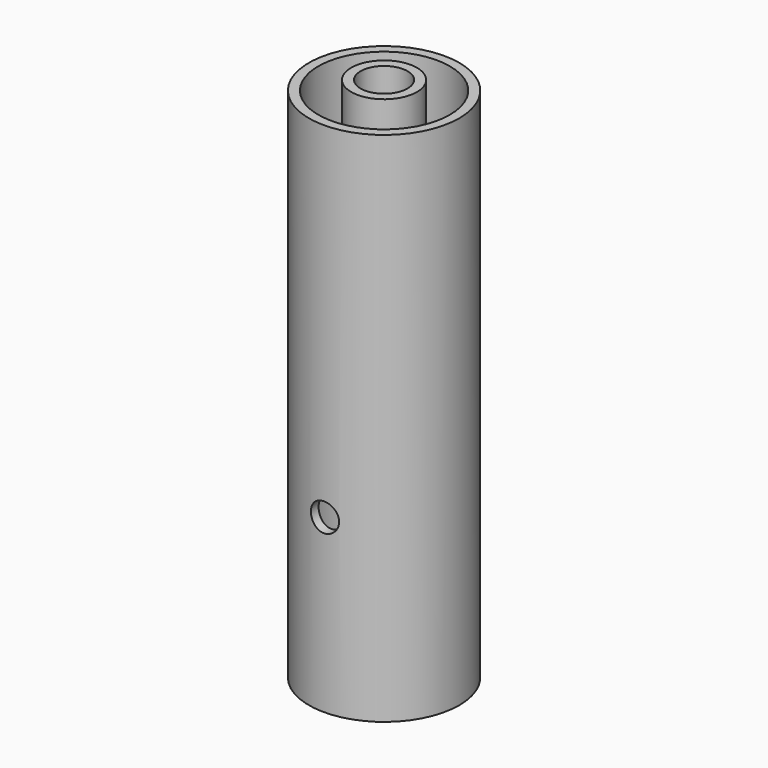
from build123d import *

# Parameters (mm, degrees)
F0_R      = 25.4
F1_DEPTH  = 177.8
F2_R      = 7.9375
F3_DEPTH  = 240.792
F4_R      = 22.225
F4_R_2    = 11.1125
F5_DEPTH  = 171.45
F6_R      = 28.604264
F6_R_2    = 14.624006
F7_DEPTH  = 3.175
F8_R      = 4.7625
F9_DEPTH  = 34.544
F10_R     = 11.060578
F10_R_2   = 8.077609
F11_DEPTH = 130.556


with BuildPart() as f1:
    # F0 (on Top) → F1 (new body)
    with BuildSketch(Plane.XY):
        Circle(F0_R)
    extrude(amount=F1_DEPTH)

    # F2 (on face) → F3 (cut)
    with BuildSketch(Plane.XY.offset(177.8)):
        Circle(F2_R)
    extrude(amount=-F3_DEPTH, mode=Mode.SUBTRACT)

    # F4 (on face) → F5 (cut)
    with BuildSketch(Plane.XY.offset(177.8)):
        Circle(F4_R)
        Circle(F4_R_2, mode=Mode.SUBTRACT)
    extrude(amount=-F5_DEPTH, mode=Mode.SUBTRACT)

    # F6 (on face) → F7 (cut)
    with BuildSketch(Plane.XY.offset(177.8)):
        Circle(F6_R)
        Circle(F6_R_2, mode=Mode.SUBTRACT)
    extrude(amount=-F7_DEPTH, mode=Mode.SUBTRACT)

    # F8 (on Front) → F9 (cut)
    with BuildSketch(Plane.XZ):
        with Locations((0, 57.984043)):
            Circle(F8_R)
    extrude(amount=F9_DEPTH, mode=Mode.SUBTRACT)

    # F10 (on face) → F11 (join)
    with BuildSketch(Plane.XY.offset(177.8)):
        Circle(F10_R)
        Circle(F10_R_2, mode=Mode.SUBTRACT)
    extrude(amount=-F11_DEPTH)


solid = f1.part
